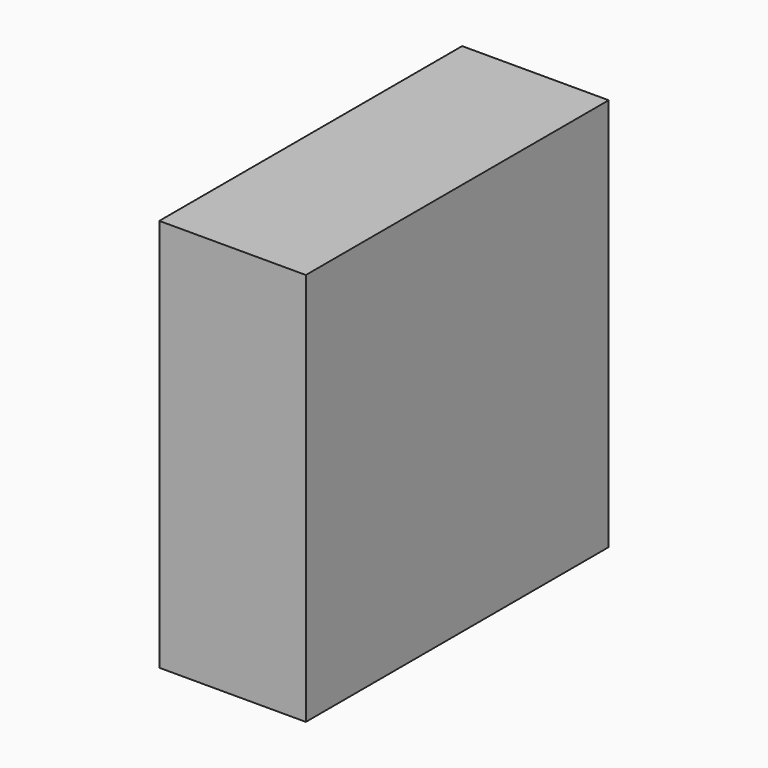
from build123d import *

# Parameters (mm, degrees)
F0_W      = 73.164038
F0_H      = 72.853908
F1_DEPTH  = 196.417706
F1_FACE_W = 73.164038
F1_FACE_H = 196.417706
F2_DEPTH  = 116.126517
F3_W      = 35.476319
F3_H      = 25.545895
F4_DEPTH  = 137.581224


with BuildPart() as f1:
    # F0 (on Top) → F1 (new body)
    with BuildSketch(Plane.XY):
        with Locations((1.1057, 27.100936)):
            Rectangle(F0_W, F0_H)
    extrude(amount=F1_DEPTH)

    # F1_face (on face) → F2 (join)
    with BuildSketch(Plane(origin=(1.1057, -9.326018, 98.208853), x_dir=(1, 0, 0), z_dir=(0, -1, 0))):
        Rectangle(F1_FACE_W, F1_FACE_H)
    extrude(amount=F2_DEPTH)

    # F3 (on face) → F4 (join)
    with BuildSketch(Plane.XY.offset(196.417706)):
        with Locations((-17.738159, 12.772947)):
            Rectangle(F3_W, F3_H)
        Polygon((0, 25.545895), (0, 0), (-35.476319, 0), (-35.476319, -125.452535), (37.687719, -125.452535), (37.687719, 63.52789), (-35.476319, 63.52789), (-35.476319, 25.545895), align=None)
    extrude(amount=-F4_DEPTH)


solid = f1.part
